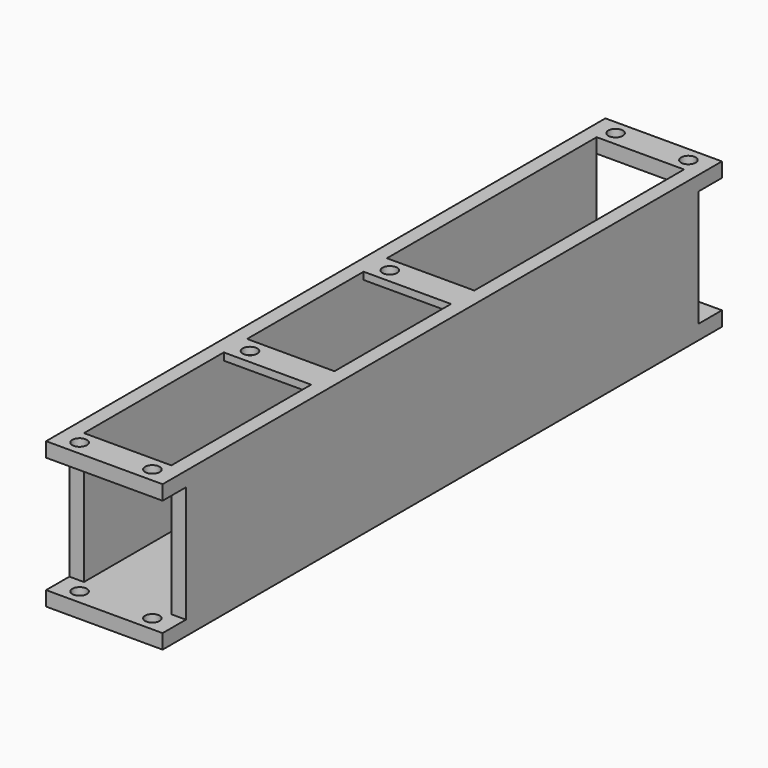
from build123d import *

# Parameters (mm, degrees)
F0_W      = 101.6
F0_H      = 609.6
F0_W_2    = 76.2
F0_H_2    = 558.8
F1_DEPTH  = 127
F2_W      = 76.2
F2_H      = 558.8
F3_DEPTH  = 19.05
F4_W      = 76.2
F4_H      = 25.4
F5_DEPTH  = 6.35
F6_W      = 101.6
F6_H      = 101.6
F7_DEPTH  = 25.4
F8_W      = 101.6
F8_H      = 101.6
F9_DEPTH  = 25.4
F3_FACE_W = 76.2
F3_FACE_H = 558.8
F10_DEPTH = 6.35
F11_R     = 6.35
F12_DEPTH = 6.35
F13_R     = 6.35
F14_DEPTH = 12.7
F15_DEPTH = 127


with BuildPart() as f1:
    # F0 (on Top) → F1 (new body)
    with BuildSketch(Plane.XY):
        with Locations((-88.146448, 27.351462)):
            Rectangle(F0_W, F0_H)
        with Locations((-88.146448, 27.351462)):
            Rectangle(F0_W_2, F0_H_2, mode=Mode.SUBTRACT)
    extrude(amount=F1_DEPTH)

    # F2 (on face) → F3 (join)
    with BuildSketch(Plane(origin=(0, 0, 0), x_dir=(1, 0, 0), z_dir=(0, 0, -1))):
        with Locations((-88.146448, -27.351462)):
            Rectangle(F2_W, F2_H)
    extrude(amount=-F3_DEPTH)

    # F4 (on face) → F5 (join)
    with BuildSketch(Plane.XY.offset(127)):
        with Locations((-88.146448, 65.451462)):
            Rectangle(F4_W, F4_H)
        with Locations((-88.146448, -86.948538)):
            Rectangle(F4_W, F4_H)
    extrude(amount=-F5_DEPTH)

    # F6 (on face) → F7 (cut)
    with BuildSketch(Plane.XZ.offset(277.448538)):
        with Locations((-88.146448, 63.5)):
            Rectangle(F6_W, F6_H)
    extrude(amount=-F7_DEPTH, mode=Mode.SUBTRACT)

    # F8 (on face) → F9 (cut)
    with BuildSketch(Plane(origin=(0, 332.151462, 0), x_dir=(-1, 0, 0), z_dir=(0, 1, 0))):
        with Locations((88.146448, 63.5)):
            Rectangle(F8_W, F8_H)
    extrude(amount=-F9_DEPTH, mode=Mode.SUBTRACT)

    # F3_face (on face) → F10 (cut)
    with BuildSketch(Plane(origin=(-88.146448, 27.351462, 19.05), x_dir=(1, 0, 0), z_dir=(0, 0, 1))):
        Rectangle(F3_FACE_W, F3_FACE_H)
    extrude(amount=-F10_DEPTH, mode=Mode.SUBTRACT)

    # F11 (on face) → F12 (cut)
    with BuildSketch(Plane.XY.offset(127)):
        with Locations((-113.546448, 65.451462)):
            Circle(F11_R)
        with Locations((-113.546448, -86.948538)):
            Circle(F11_R)
    extrude(amount=-F12_DEPTH, mode=Mode.SUBTRACT)

    # F13 (on face) → F14 (cut)
    with BuildSketch(Plane.XY.offset(127)):
        with Locations((-119.896448, -264.748538)):
            Circle(F13_R)
        with Locations((-56.396448, -264.748538)):
            Circle(F13_R)
        with Locations((-119.896448, 319.451462)):
            Circle(F13_R)
        with Locations((-56.396448, 319.451462)):
            Circle(F13_R)
    extrude(amount=-F14_DEPTH, mode=Mode.SUBTRACT)

    # F13 (on face) → F15 (cut)
    with BuildSketch(Plane.XY.offset(127)):
        with Locations((-119.896448, 319.451462)):
            Circle(F13_R)
        with Locations((-56.396448, 319.451462)):
            Circle(F13_R)
        with Locations((-119.896448, -264.748538)):
            Circle(F13_R)
        with Locations((-56.396448, -264.748538)):
            Circle(F13_R)
    extrude(amount=-F15_DEPTH, mode=Mode.SUBTRACT)


solid = f1.part
